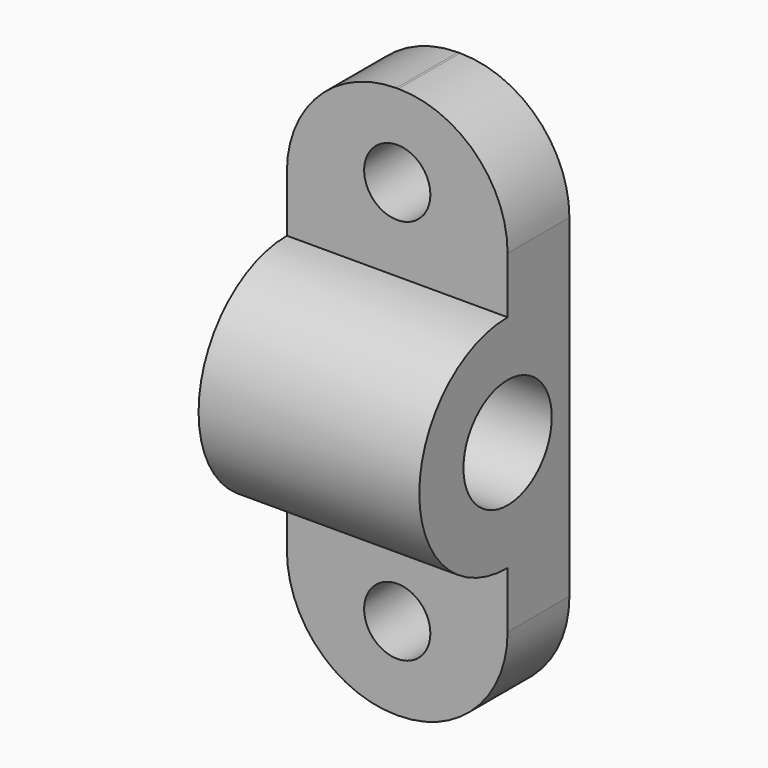
from build123d import *

# Parameters (mm, degrees)
PAD030_DEPTH             = 20
SKETCH021_R              = 5
POCKET001006_DEPTH       = 20.001
FILLET_R                 = 9.9
SKETCH024_R              = 3
POCKET002_DEPTH          = 7.001
CLONE076_ROLL_ANGLE      = 90
CLONE076_PLACEMENT_ANGLE = -90


with BuildPart() as part:
    # Sketch020 → Pad030 (new body)
    with BuildSketch(Plane.XY):
        with BuildLine():
            Line((18, 0), (25, 0))
            Line((25, 0), (25, 15))
            ThreePointArc((25, 15), (35, 25), (25, 35))
            Line((25, 35), (25, 50))
            Line((25, 50), (18, 50))
            Line((18, 50), (18, 0))
        make_face()
    extrude(amount=PAD030_DEPTH)

    # Sketch021 → Pocket001006 (cut, through all)
    with BuildSketch(Plane(origin=(0, 0, 0), x_dir=(1, 0, 0), z_dir=(0, 0, -1))):
        with Locations((25, -25)):
            Circle(SKETCH021_R)
    extrude(amount=-POCKET001006_DEPTH, mode=Mode.SUBTRACT)

    # Fillet
    fillet_edges = [part.edges().sort_by_distance(p)[0] for p in [
        (21.5, 0, 0),
        (21.5, 50, 0),
        (21.5, 50, 20),
        (21.5, 0, 20),
    ]]
    fillet(fillet_edges, radius=FILLET_R)

    # Sketch024 → Pocket002 (cut, through all)
    with BuildSketch(Plane.YZ.offset(25)):
        with Locations((7.5, 10)):
            Circle(SKETCH024_R)
        with Locations((42.5, 10)):
            Circle(SKETCH024_R)
    extrude(amount=-POCKET002_DEPTH, mode=Mode.SUBTRACT)


with BuildPart() as part_1:
    # Clone076 roll: moved
    add(part.part.rotate(Axis((0, 0, 0), (1, 0, 0)), CLONE076_ROLL_ANGLE))


with BuildPart() as part_2:
    # Clone076 placement: moved
    add(part_1.part.moved(Location((120.75, 1500, 0))).rotate(Axis((120.75, 1500, 0), (0, 0, 1)), CLONE076_PLACEMENT_ANGLE))


with BuildPart() as part_3:
    # Clone080 placement: moved
    add(part_2.part.moved(Location((479.25, 0, 0))))


solid = part_3.part
